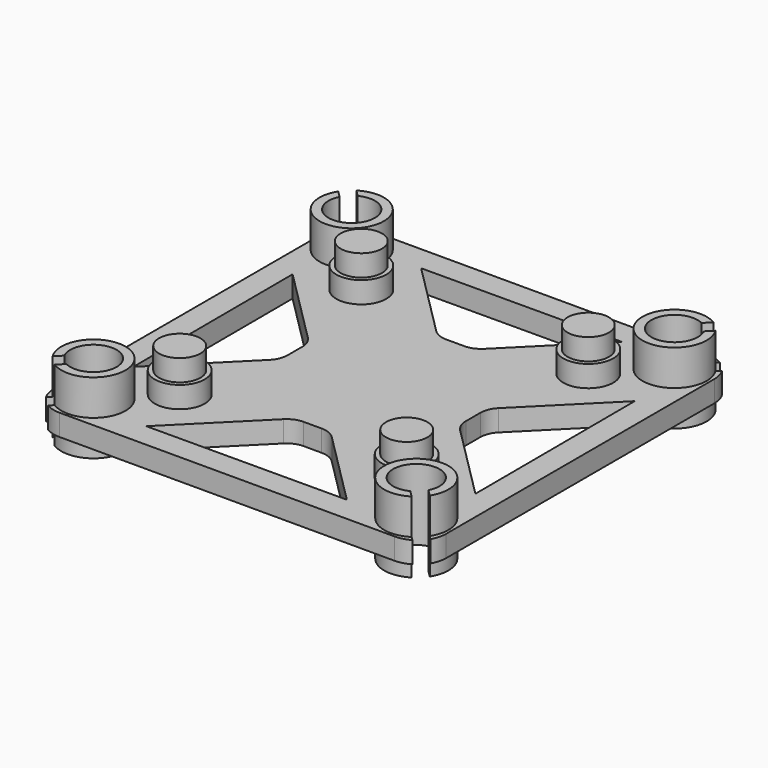
from build123d import *

# Parameters (mm, degrees)
F0_W      = 55
F0_H      = 55
F1_DEPTH  = 3
F2_R      = 3.5
F3_DEPTH  = 3
F4_R      = 2.9
F5_DEPTH  = 3
F6_R      = 4.5
F7_DEPTH  = 5
F8_R      = 3.25
F9_DEPTH  = 25
F10_R     = 4
F12_DEPTH = 25
F13_R     = 3
F15_DEPTH = 3
F17_DEPTH = 20


with BuildPart() as f1:
    # F0 (on Top) → F1 (new body)
    with BuildSketch(Plane.XY):
        Rectangle(F0_W, F0_H)
    extrude(amount=F1_DEPTH)

    # F2 (on face) → F3 (join)
    with BuildSketch(Plane.XY.offset(3)):
        with Locations((-15.9099025767, 15.9099025767)):
            Circle(F2_R)
        with Locations((15.9099025767, 15.9099025767)):
            Circle(F2_R)
        with Locations((-15.9099025767, -15.9099025767)):
            Circle(F2_R)
        with Locations((15.9099025767, -15.9099025767)):
            Circle(F2_R)
    extrude(amount=F3_DEPTH)

    # F4 (on face) → F5 (join)
    with BuildSketch(Plane.XY.offset(6)):
        with Locations((-15.9099025767, 15.9099025767)):
            Circle(F4_R)
        with Locations((15.9099025767, 15.9099025767)):
            Circle(F4_R)
        with Locations((-15.9099025767, -15.9099025767)):
            Circle(F4_R)
        with Locations((15.9099025767, -15.9099025767)):
            Circle(F4_R)
    extrude(amount=F5_DEPTH)

    # F6 (on face) → F7 (join, symmetric)
    with BuildSketch(Plane.XY.offset(3)):
        with Locations((-22.627416998, 22.627416998)):
            Circle(F6_R)
        with Locations((22.627416998, 22.627416998)):
            Circle(F6_R)
        with Locations((22.627416998, -22.627416998)):
            Circle(F6_R)
        with Locations((-22.627416998, -22.627416998)):
            Circle(F6_R)
    extrude(amount=F7_DEPTH, both=True)

    # F8 (on face) → F9 (cut, symmetric)
    with BuildSketch(Plane(origin=(0, 0, -2), x_dir=(1, 0, 0), z_dir=(0, 0, -1))):
        with Locations((-22.627416998, 22.627416998)):
            Circle(F8_R)
        with Locations((22.627416998, 22.627416998)):
            Circle(F8_R)
        with Locations((-22.627416998, -22.627416998)):
            Circle(F8_R)
        with Locations((22.627416998, -22.627416998)):
            Circle(F8_R)
    extrude(amount=F9_DEPTH, both=True, mode=Mode.SUBTRACT)

    # F10
    f10_edges = [f1.edges().sort_by_distance(p)[0] for p in [
        (27.5, -27.5, 1.5),
        (-27.5, -27.5, 1.5),
        (-27.5, 27.5, 1.5),
        (27.5, 27.5, 1.5),
    ]]
    fillet(f10_edges, radius=F10_R)

    # F11 (on face) → F12 (cut, symmetric)
    with BuildSketch(Plane.XY.offset(3)):
        Polygon((-12.5, 2.5), (-27.5, 17.5), (-27.5, -17.5), (-12.5, -2.5), align=None)
        Polygon((-2.5, -12.5), (-17.5, -27.5), (17.5, -27.5), (2.5, -12.5), align=None)
        Polygon((12.5, -2.5), (27.5, -17.5), (27.5, 17.5), (12.5, 2.5), align=None)
        Polygon((2.5, 12.5), (17.5, 27.5), (-17.5, 27.5), (-2.5, 12.5), align=None)
    extrude(amount=F12_DEPTH, both=True, mode=Mode.SUBTRACT)

    # F13
    f13_edges = [f1.edges().sort_by_distance(p)[0] for p in [
        (27.5, 17.5, 1.5),
        (12.5, 2.5, 1.5),
        (27.5, -17.5, 1.5),
        (17.5, -27.5, 1.5),
        (-17.5, -27.5, 1.5),
        (-2.5, -12.5, 1.5),
        (2.5, -12.5, 1.5),
        (-27.5, -17.5, 1.5),
        (-12.5, -2.5, 1.5),
        (-12.5, 2.5, 1.5),
        (-27.5, 17.5, 1.5),
        (-17.5, 27.5, 1.5),
        (-2.5, 12.5, 1.5),
        (2.5, 12.5, 1.5),
        (17.5, 27.5, 1.5),
        (12.5, -2.5, 1.5),
    ]]
    fillet(f13_edges, radius=F13_R)

    # F14 (on face) → F15 (join)
    with BuildSketch(Plane.XY.offset(3)):
        with BuildLine():
            ThreePointArc((-26.6213203436, 16.6213203436), (-27.2716385975, 17.59459039), (-27.5, 18.7426406871))
            Line((-27.5, 18.7426406871), (-27.5, -18.7426406871))
            ThreePointArc((-27.5, -18.7426406871), (-27.2716385975, -17.59459039), (-26.6213203436, -16.6213203436))
            Line((-26.6213203436, -16.6213203436), (-23.9688763441, -13.9688763441))
            Line((-23.9688763441, -13.9688763441), (-24.0687389298, 14.0687389298))
            Line((-24.0687389298, 14.0687389298), (-26.6213203436, 16.6213203436))
        make_face()
        with BuildLine():
            Line((18.7426406871, 27.5), (-18.7426406871, 27.5))
            ThreePointArc((-18.7426406871, 27.5), (-17.59459039, 27.2716385975), (-16.6213203436, 26.6213203436))
            Line((-16.6213203436, 26.6213203436), (-13.9688763441, 23.9688763441))
            Line((-13.9688763441, 23.9688763441), (14.0687389298, 24.0687389298))
            Line((14.0687389298, 24.0687389298), (16.6213203436, 26.6213203436))
            ThreePointArc((16.6213203436, 26.6213203436), (17.59459039, 27.2716385975), (18.7426406871, 27.5))
        make_face()
        with BuildLine():
            Line((27.5, -18.7426406871), (27.5, 18.7426406871))
            ThreePointArc((27.5, 18.7426406871), (27.2716385975, 17.59459039), (26.6213203436, 16.6213203436))
            Line((26.6213203436, 16.6213203436), (23.9688763441, 13.9688763441))
            Line((23.9688763441, 13.9688763441), (24.0687389298, -14.0687389298))
            Line((24.0687389298, -14.0687389298), (26.6213203436, -16.6213203436))
            ThreePointArc((26.6213203436, -16.6213203436), (27.2716385975, -17.59459039), (27.5, -18.7426406871))
        make_face()
        with BuildLine():
            ThreePointArc((-16.6213203436, -26.6213203436), (-17.59459039, -27.2716385975), (-18.7426406871, -27.5))
            Line((-18.7426406871, -27.5), (18.7426406871, -27.5))
            ThreePointArc((18.7426406871, -27.5), (17.59459039, -27.2716385975), (16.6213203436, -26.6213203436))
            Line((16.6213203436, -26.6213203436), (13.9688763441, -23.9688763441))
            Line((13.9688763441, -23.9688763441), (-14.0687389298, -24.0687389298))
            Line((-14.0687389298, -24.0687389298), (-16.6213203436, -26.6213203436))
        make_face()
    extrude(amount=-F15_DEPTH)

    # F16 (on face) → F17 (cut, symmetric)
    with BuildSketch(Plane.XY.offset(3)):
        Polygon((-27.9307178569, 26.5165042945), (-25.1022907321, 23.6880771697), (-23.6880771697, 25.1022907321), (-26.5165042945, 27.9307178569), align=None)
        Polygon((-23.6880771697, -25.1022907321), (-25.1022907321, -23.6880771697), (-27.9307178569, -26.5165042945), (-26.5165042945, -27.9307178569), align=None)
        Polygon((25.1022907321, -23.6880771697), (23.6880771697, -25.1022907321), (26.5165042945, -27.9307178569), (27.9307178569, -26.5165042945), align=None)
        Polygon((23.6880771697, 25.1022907321), (25.1022907321, 23.6880771697), (27.9307178569, 26.5165042945), (26.5165042945, 27.9307178569), align=None)
    extrude(amount=F17_DEPTH, both=True, mode=Mode.SUBTRACT)


solid = f1.part
